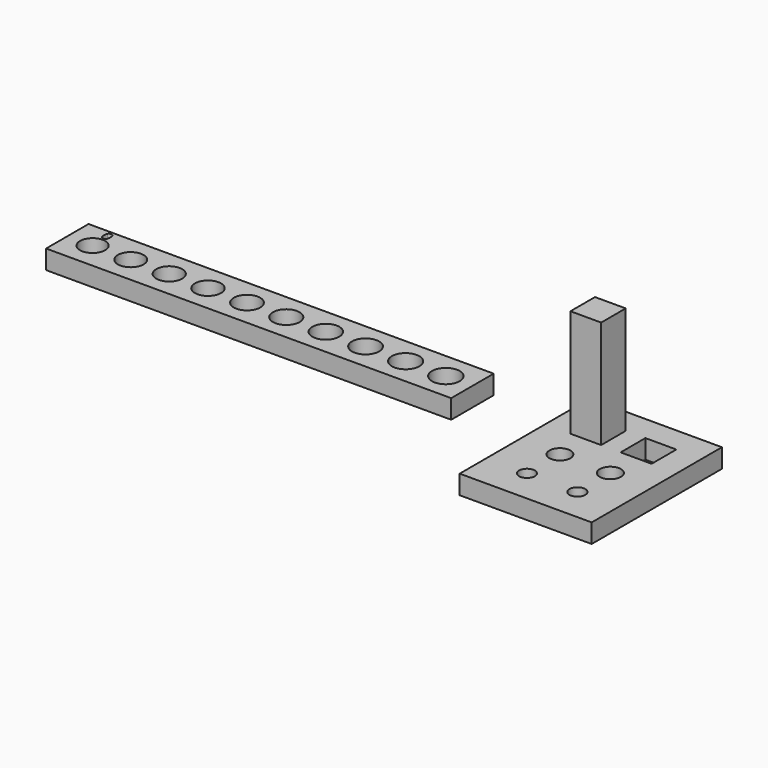
from build123d import *

# Parameters (mm, degrees)
F0_W     = 63.86
F0_H     = 8.37
F0_R     = 1.985
F0_R_2   = 2.025
F0_R_3   = 2.045
F0_R_4   = 2.065
F0_R_5   = 2.085
F0_R_6   = 2.105
F0_R_7   = 2.125
F0_R_8   = 2.145
F0_R_9   = 2.165
F0_R_10  = 2.185
F1_DEPTH = 3
F2_W     = 20.8080409622
F2_H     = 25.6631081086
F2_R     = 1.235
F2_R_2   = 1.655
F2_R_3   = 1.25
F2_R_4   = 1.67
F2_W_2   = 4.84
F2_H_2   = 4.84
F2_W_3   = 4.88
F2_H_3   = 4.88
F3_DEPTH = 3
F4_DEPTH = 20


with BuildPart() as f1:
    # F0 (on Top) → F1 (new body)
    with BuildSketch(Plane.XY):
        with Locations((-51.7361271751, 0)):
            Rectangle(F0_W, F0_H)
        with Locations((-79.6811271751, 0)):
            Circle(F0_R, mode=Mode.SUBTRACT)
        with Locations((-73.6711271751, 0)):
            Circle(F0_R_2, mode=Mode.SUBTRACT)
        with Locations((-67.6011271751, 0)):
            Circle(F0_R_3, mode=Mode.SUBTRACT)
        with Locations((-61.4911271751, 0)):
            Circle(F0_R_4, mode=Mode.SUBTRACT)
        with Locations((-55.3411271751, 0)):
            Circle(F0_R_5, mode=Mode.SUBTRACT)
        with BuildLine():
            add(Edge.make_bspline(
                [(-79.4572016597, 3.6116019332), (-79.331550618, 3.4151501103), (-79.331550618, 3.0430797978)],
                knots=[0, 0, 0, 1, 1, 1], degree=2))
            add(Edge.make_bspline(
                [(-79.331550618, 3.0430797978), (-79.331550618, 2.6573376103), (-79.4531326493, 2.4670706832)],
                knots=[0, 0, 0, 1, 1, 1], degree=2))
            add(Edge.make_bspline(
                [(-79.4531326493, 2.4670706832), (-79.5747146805, 2.2768037561), (-79.8250402013, 2.2768037561)],
                knots=[0, 0, 0, 1, 1, 1], degree=2))
            add(Edge.make_bspline(
                [(-79.8250402013, 2.2768037561), (-80.0649490555, 2.2768037561), (-80.1901118159, 2.4716279749)],
                knots=[0, 0, 0, 1, 1, 1], degree=2))
            add(Edge.make_bspline(
                [(-80.1901118159, 2.4716279749), (-80.3152745763, 2.6664521936), (-80.3152745763, 3.0430797978)],
                knots=[0, 0, 0, 1, 1, 1], degree=2))
            add(Edge.make_bspline(
                [(-80.3152745763, 3.0430797978), (-80.3152745763, 3.431426152), (-80.1941808263, 3.619739954)],
                knots=[0, 0, 0, 1, 1, 1], degree=2))
            add(Edge.make_bspline(
                [(-80.1941808263, 3.619739954), (-80.0730870763, 3.8080537561), (-79.8250402013, 3.8080537561)],
                knots=[0, 0, 0, 1, 1, 1], degree=2))
            add(Edge.make_bspline(
                [(-79.8250402013, 3.8080537561), (-79.5828527013, 3.8080537561), (-79.4572016597, 3.6116019332)],
                knots=[0, 0, 0, 1, 1, 1], degree=2))
        make_face(mode=Mode.SUBTRACT)
        with Locations((-49.1511271751, 0)):
            Circle(F0_R_6, mode=Mode.SUBTRACT)
        with Locations((-42.9211271751, 0)):
            Circle(F0_R_7, mode=Mode.SUBTRACT)
        with Locations((-36.6511271751, 0)):
            Circle(F0_R_8, mode=Mode.SUBTRACT)
        with Locations((-30.3411271751, 0)):
            Circle(F0_R_9, mode=Mode.SUBTRACT)
        with Locations((-23.9911271751, 0)):
            Circle(F0_R_10, mode=Mode.SUBTRACT)
    extrude(amount=F1_DEPTH)


with BuildPart() as f3:
    # F2 (on Top) → F3 (new body)
    with BuildSketch(Plane.XY):
        with Locations((3.9840204811, -6.4115540543)):
            Rectangle(F2_W, F2_H)
        with Locations((0, -14.0081081086)):
            Circle(F2_R, mode=Mode.SUBTRACT)
        with Locations((0, -7.5178151019)):
            Circle(F2_R_2, mode=Mode.SUBTRACT)
        with Locations((7.9480409622, -14.0081081086)):
            Circle(F2_R_3, mode=Mode.SUBTRACT)
        with Locations((7.9480409622, -7.5178151019)):
            Circle(F2_R_4, mode=Mode.SUBTRACT)
        Rectangle(F2_W_2, F2_H_2, mode=Mode.SUBTRACT)
        with Locations((7.9480409622, 0)):
            Rectangle(F2_W_3, F2_H_3, mode=Mode.SUBTRACT)
    extrude(amount=F3_DEPTH)


with BuildPart() as f4:
    # F2 (on Top) → F4 (new body)
    with BuildSketch(Plane.XY):
        Rectangle(F2_W_2, F2_H_2)
    extrude(amount=F4_DEPTH)


solid = Compound([f1.part, f3.part, f4.part])
